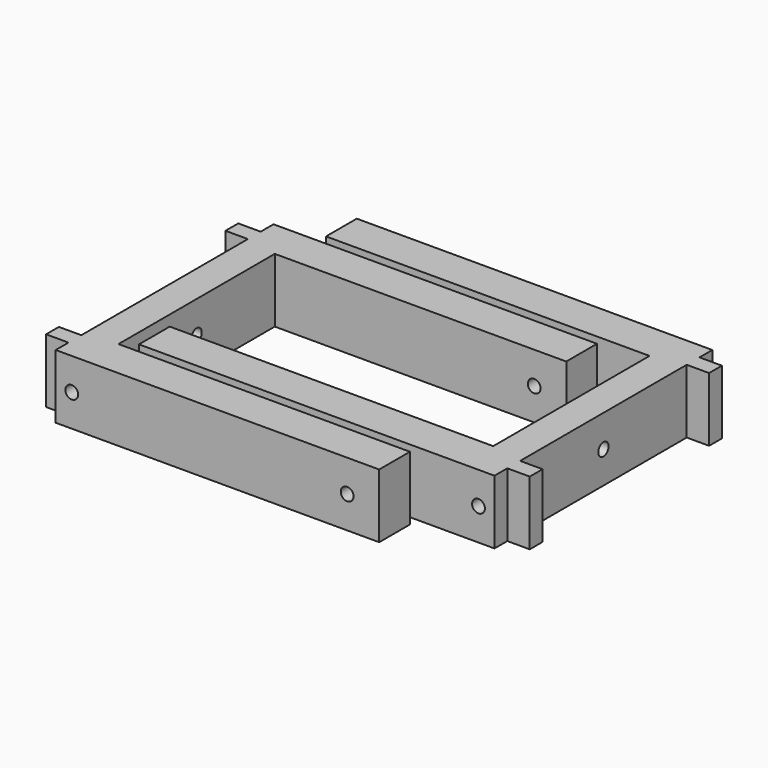
from build123d import *

# Parameters (mm, degrees)
PAD_DEPTH       = 20
SKETCH004_R     = 2
POCKET002_DEPTH = 101.001
SKETCH005_R     = 2
POCKET003_DEPTH = 85.001
PAD001_DEPTH    = 20
SKETCH007_R     = 2
POCKET004_DEPTH = 111.001
SKETCH008_R     = 2
POCKET005_DEPTH = 85.001


with BuildPart() as soporte_agujero_superior_lateral:
    # Sketch → Pad (new body)
    with BuildSketch(Plane.XY):
        Polygon((-10, -42.5), (91, -42.5), (91, -30.5), (0, -30.5), (0, 30.5), (91, 30.5), (91, 42.5), (-10, 42.5), (-10, 37.5), (-17, 37.5), (-17, 32.5), (-10, 32.5), (-10, -32.5), (-17, -32.5), (-17, -37.5), (-10, -37.5), align=None)
    extrude(amount=PAD_DEPTH)

    # Sketch004 → Pocket002 (cut, through all)
    with BuildSketch(Plane(origin=(-10, 0, 0), x_dir=(0, -1, 0), z_dir=(-1, 0, 0))):
        with Locations((0, 10)):
            Circle(SKETCH004_R)
    extrude(amount=-POCKET002_DEPTH, mode=Mode.SUBTRACT)

    # Sketch005 → Pocket003 (cut, through all)
    with BuildSketch(Plane.XZ.offset(42.5)):
        with Locations((-5, 10)):
            Circle(SKETCH005_R)
        with Locations((81, 10)):
            Circle(SKETCH005_R)
    extrude(amount=-POCKET003_DEPTH, mode=Mode.SUBTRACT)


with BuildPart() as soporte_agujero_superior_lateral001:
    # Sketch006 → Pad001 (new body)
    with BuildSketch(Plane(origin=(105, 15, 0), x_dir=(-1, 0, 0), z_dir=(0, 0, 1))):
        Polygon((-10, -42.5), (101, -42.5), (101, -30.5), (0, -30.5), (0, 30.5), (101, 30.5), (101, 42.5), (-10, 42.5), (-10, 37.5), (-17, 37.5), (-17, 32.5), (-10, 32.5), (-10, -32.5), (-17, -32.5), (-17, -37.5), (-10, -37.5), align=None)
    extrude(amount=PAD001_DEPTH)

    # Sketch007 → Pocket004 (cut, through all)
    with BuildSketch(Plane(origin=(115, 15, 0), x_dir=(0, 1, 0), z_dir=(1, 0, 0))):
        with Locations((0, 10)):
            Circle(SKETCH007_R)
    extrude(amount=-POCKET004_DEPTH, mode=Mode.SUBTRACT)

    # Sketch008 → Pocket005 (cut, through all)
    with BuildSketch(Plane(origin=(105, 57.5, 0), x_dir=(-1, 0, 0), z_dir=(0, 1, 0))):
        with Locations((-5, 10)):
            Circle(SKETCH008_R)
        with Locations((91, 10)):
            Circle(SKETCH008_R)
    extrude(amount=-POCKET005_DEPTH, mode=Mode.SUBTRACT)


solid = Compound([soporte_agujero_superior_lateral.part, soporte_agujero_superior_lateral001.part])
